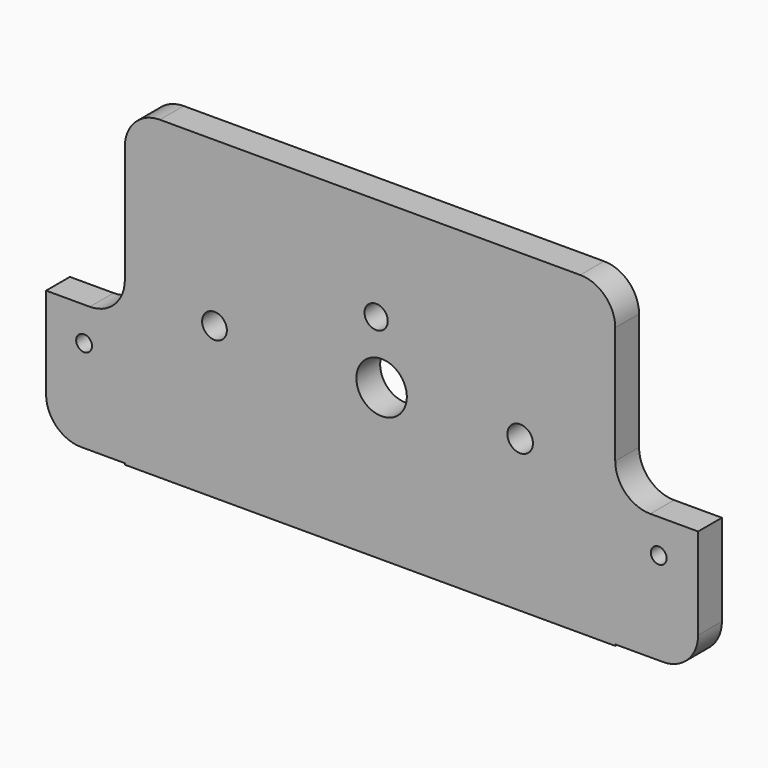
from build123d import *

# Parameters (mm, degrees)
F0_R     = 1.796742
F0_R_2   = 3.661721
F0_R_3   = 1.853658
F0_R_4   = 1.683803
F0_W     = 11.430001
F0_H     = 18.327412
F0_R_5   = 1.149098
F0_W_2   = 12.02121
F0_R_6   = 1.149206
F1_DEPTH = 4.318
F2_R     = 5.08


with BuildPart() as f1:
    # F0 (on Front) → F1 (new body)
    with BuildSketch(Plane.XZ):
        Polygon((41.088879, 23.746809), (-30.053018, 23.746809), (-30.053018, -3.448707), (-30.053018, -21.776119), (-30.053018, -21.973191), (41.088879, -21.973191), (41.088879, -21.776119), (41.088879, -3.448707), align=None)
        with Locations((-17.051516, 0)):
            Circle(F0_R, mode=Mode.SUBTRACT)
        with Locations((7.193016, 0)):
            Circle(F0_R_2, mode=Mode.SUBTRACT)
        with Locations((27.29243, 0)):
            Circle(F0_R_3, mode=Mode.SUBTRACT)
        with Locations((6.401504, 8.764441)):
            Circle(F0_R_4, mode=Mode.SUBTRACT)
        with Locations((-35.768018, -12.612413)):
            Rectangle(F0_W, F0_H)
        with Locations((-35.965085, -8.375431)):
            Circle(F0_R_5, mode=Mode.SUBTRACT)
        with Locations((47.099484, -12.612413)):
            Rectangle(F0_W_2, F0_H)
        with Locations((47.395017, -8.375431)):
            Circle(F0_R_6, mode=Mode.SUBTRACT)
    extrude(amount=F1_DEPTH)

    # F2
    f2_edges = [f1.edges().sort_by_distance(p)[0] for p in [
        (-30.053018, -2.159, 23.746809),
        (41.088879, -2.159, 23.746809),
        (-30.053018, -2.159, -3.448707),
        (41.088879, -2.159, -3.448707),
        (53.110089, -2.159, -21.776119),
        (-41.483019, -2.159, -21.776119),
    ]]
    fillet(f2_edges, radius=F2_R)


solid = f1.part
